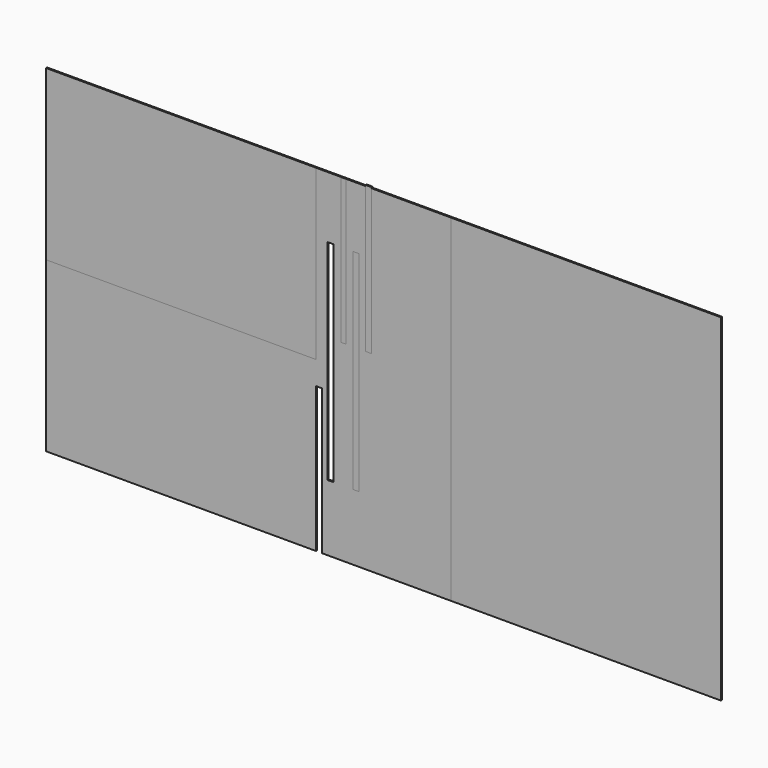
from build123d import *

# Parameters (mm, degrees)
F4_DEPTH = 0.5
F2_W     = 101.6
F2_H     = 127
F1_W     = 1.8945392221
F1_H     = 54.5279430225
F1_W_2   = 2.3062070832
F1_H_2   = 78.8719132543
F1_W_3   = 2.2553699091
F1_H_3   = 55.1558332518


with BuildPart() as f4:
    # F3 (on face) → F4 (new body)
    with BuildSketch(Plane.XZ):
        Polygon((-27.0345257595, 59.457840398), (-27.0345257595, 59.5308371335), (-128.6345257595, 59.5308371335), (-128.6345257595, -3.9691628665), (-128.6345257595, -4.0056612343), (-27.0345257595, -4.0056612343), (-27.0345257595, 4.8075746745), align=None)
    extrude(amount=F4_DEPTH)


with BuildPart() as f4b:
    # F0 (on Front) → F4, piece 2 (new body)
    with BuildSketch(Plane.XZ):
        Polygon((-27.0345257595, -4.0056612343), (-128.6345257595, -4.0056612343), (-128.6345257595, -67.4691628665), (-27.0345257595, -67.4691628665), (-27.0345257595, -12.818897143), align=None)
        Polygon((-1.6345257595, 59.5308371335), (-1.982816495, 59.5308371335), (-1.982816495, -4.0056612343), (-20.4235240817, -4.0056612343), (-20.4235240817, -42.5288453698), (-22.6397402585, -42.5288453698), (-22.6397402585, -4.0056612343), (-27.0345257595, -4.0056612343), (-27.0345257595, -12.818897143), (-24.828478694, -12.818897143), (-24.828478694, -67.4691628665), (23.7654742405, -67.4691628665), (23.7654742405, 59.5308371335), align=None)
        Polygon((-1.982816495, 59.5308371335), (-27.0345257595, 59.5308371335), (-27.0345257595, 59.457840398), (-27.0345257595, 4.8075746745), (-27.0345257595, -4.0056612343), (-22.6397402585, -4.0056612343), (-22.6397402585, 36.3364890218), (-20.4235240817, 36.3364890218), (-20.4235240817, -4.0056612343), (-1.982816495, -4.0056612343), align=None)
    extrude(amount=F4_DEPTH)


with BuildPart() as f4c:
    # F2 (on face) → F4, piece 3 (new body)
    with BuildSketch(Plane.XZ):
        with Locations((74.5654742405, -3.9691628665)):
            Rectangle(F2_W, F2_H)
    extrude(amount=F4_DEPTH)


with BuildPart() as f4d:
    # F1 (on face) → F4, piece 4 (new body)
    with BuildSketch(Plane.XZ):
        with Locations((-16.639505513, 31.9959684275)):
            Rectangle(F1_W, F1_H)
    extrude(amount=F4_DEPTH)


with BuildPart() as f4e:
    # F1 (on face) → F4, piece 5 (new body)
    with BuildSketch(Plane.XZ):
        with Locations((-11.9626992382, -3.1067281961)):
            Rectangle(F1_W_2, F1_H_2)
    extrude(amount=F4_DEPTH)


with BuildPart() as f4f:
    # F1 (on face) → F4, piece 6 (new body)
    with BuildSketch(Plane.XZ):
        with Locations((-7.2409925051, 32.3099135421)):
            Rectangle(F1_W_3, F1_H_3)
    extrude(amount=F4_DEPTH)


solid = Compound([f4.part, f4b.part, f4c.part, f4d.part, f4e.part, f4f.part])
